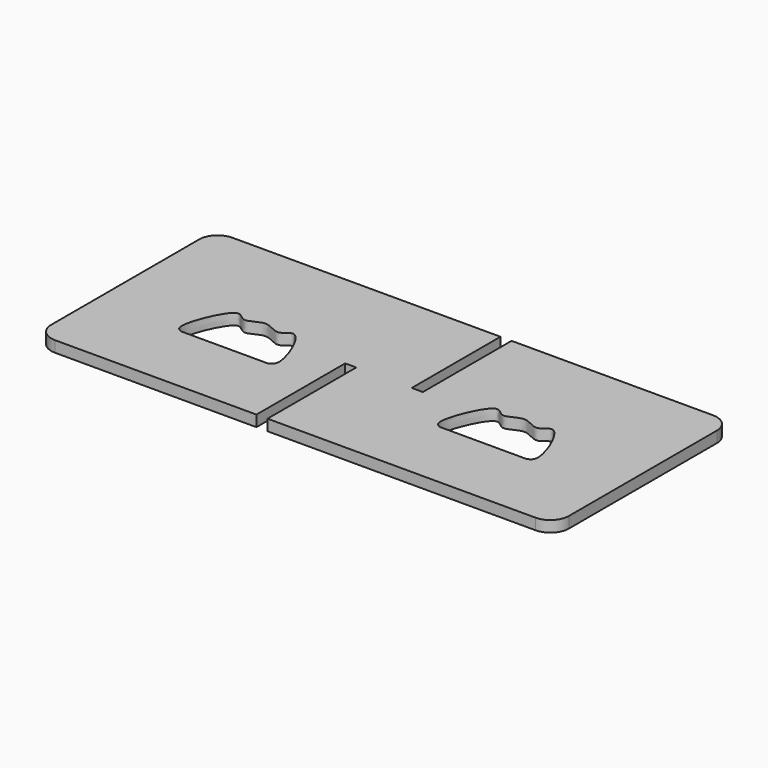
from build123d import *

# Parameters (mm, degrees)
F1_DEPTH = 3
F2_R     = 5


with BuildPart() as f1:
    # F0 (on Top) → F1 (new body)
    with BuildSketch(Plane.XY):
        Polygon((-70, 30), (-70, -30), (-10.5, -30), (-10.5, 0), (-7.5, 0), (-7.5, -30), (70, -30), (70, 30), (10.5, 30), (10.5, 25), (10.5, 0), (7.5, 0), (7.5, 25), (7.5, 30), align=None)
        with BuildLine():
            Line((-23.25, -10.2196243256), (-35, -10.2196243256))
            Line((-35, -10.2196243256), (-46.75, -10.2196243256))
            add(Edge.make_bspline(
                [(-46.75, -10.2196243256), (-47.4398527053, -9.8994604487), (-49.7484516496, -8.8280288482), (-43.2152526161, 7.1056527722), (-39.7840829623, 0.6341609676), (-34.9999064665, 5.3524764777), (-30.2162578038, 0.6347077179), (-26.7843869073, 7.1013022273), (-20.2612774021, -8.808186377), (-22.5613884149, -9.8944243476), (-23.25, -10.2196243256)],
                knots=[0, 0, 0, 0, 0.0839701048, 0.2810067916, 0.3797698891, 0.4999744188, 0.6201789486, 0.7189420461, 0.9158563382, 1, 1, 1, 1], degree=3))
        make_face(mode=Mode.SUBTRACT)
        with BuildLine():
            add(Edge.make_bspline(
                [(46.75, -10.2196243256), (47.4398527053, -9.8994604487), (49.7484516496, -8.8280288482), (43.2152526161, 7.1056527722), (39.7840829623, 0.6341609676), (34.9999064665, 5.3524764777), (30.2162578038, 0.6347077179), (26.7843869073, 7.1013022273), (20.2612774021, -8.808186377), (22.5613884149, -9.8944243476), (23.25, -10.2196243256)],
                knots=[0, 0, 0, 0, 0.0839701048, 0.2810067916, 0.3797698891, 0.4999744188, 0.6201789486, 0.7189420461, 0.9158563382, 1, 1, 1, 1], degree=3))
            Line((46.75, -10.2196243256), (35, -10.2196243256))
            Line((35, -10.2196243256), (23.25, -10.2196243256))
        make_face(mode=Mode.SUBTRACT)
    extrude(amount=F1_DEPTH)

    # F2
    f2_edges = [f1.edges().sort_by_distance(p)[0] for p in [
        (70, -30, 1.5),
        (70, 30, 1.5),
        (-70, 30, 1.5),
        (-70, -30, 1.5),
    ]]
    fillet(f2_edges, radius=F2_R)


solid = f1.part
